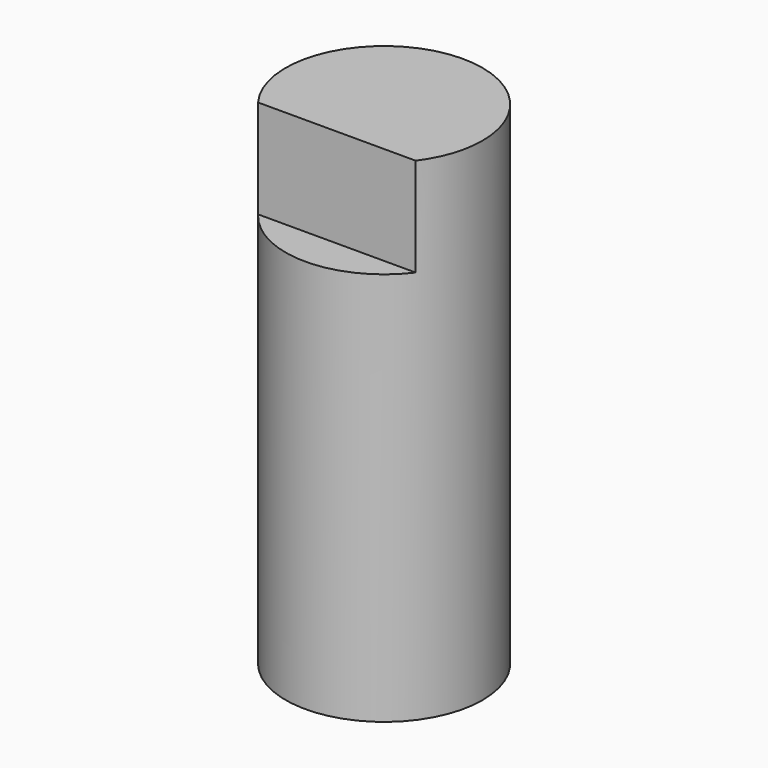
from build123d import *

# Parameters (mm, degrees)
F0_R     = 25.4
F1_DEPTH = 127
F3_DEPTH = 25.4


with BuildPart() as f1:
    # F0 (on Top) → F1 (new body)
    with BuildSketch(Plane.XY):
        Circle(F0_R)
    extrude(amount=F1_DEPTH)

    # F2 (on face) → F3 (cut)
    with BuildSketch(Plane.XY.offset(127)):
        with BuildLine():
            Line((20.32, -15.24), (0, -15.24))
            Line((0, -15.24), (-20.32, -15.24))
            ThreePointArc((-20.32, -15.24), (0, -25.4), (20.32, -15.24))
        make_face()
    extrude(amount=-F3_DEPTH, mode=Mode.SUBTRACT)


solid = f1.part
